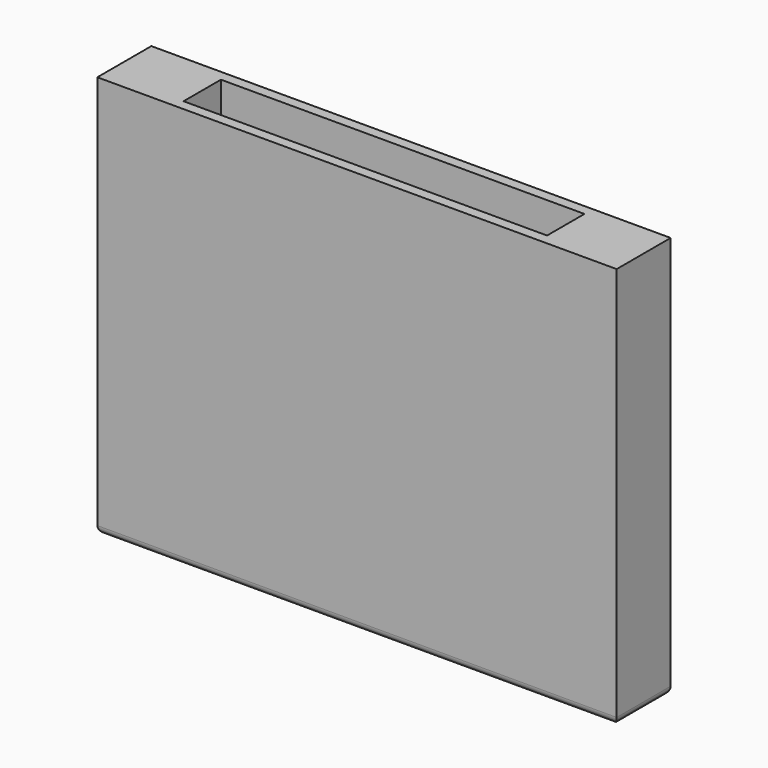
from build123d import *

# Parameters (mm, degrees)
F0_W     = 50.8
F0_H     = 39.37
F1_DEPTH = 3.302
F2_W     = 35.56
F2_H     = 4.572
F3_DEPTH = 39.37
F4_R     = 0.762


with BuildPart() as f1:
    # F0 (on Front) → F1 (new body, symmetric)
    with BuildSketch(Plane.XZ):
        Rectangle(F0_W, F0_H)
    extrude(amount=F1_DEPTH, both=True)

    # F2 (on face) → F3 (cut)
    with BuildSketch(Plane.XY.offset(19.685)):
        Rectangle(F2_W, F2_H)
    extrude(amount=-F3_DEPTH, mode=Mode.SUBTRACT)

    # F4
    f4_edges = [f1.edges().sort_by_distance(p)[0] for p in [
        (0, -3.302, -19.685),
        (-25.4, 0, -19.685),
        (0, 3.302, -19.685),
        (25.4, 0, -19.685),
    ]]
    fillet(f4_edges, radius=F4_R)


solid = f1.part
